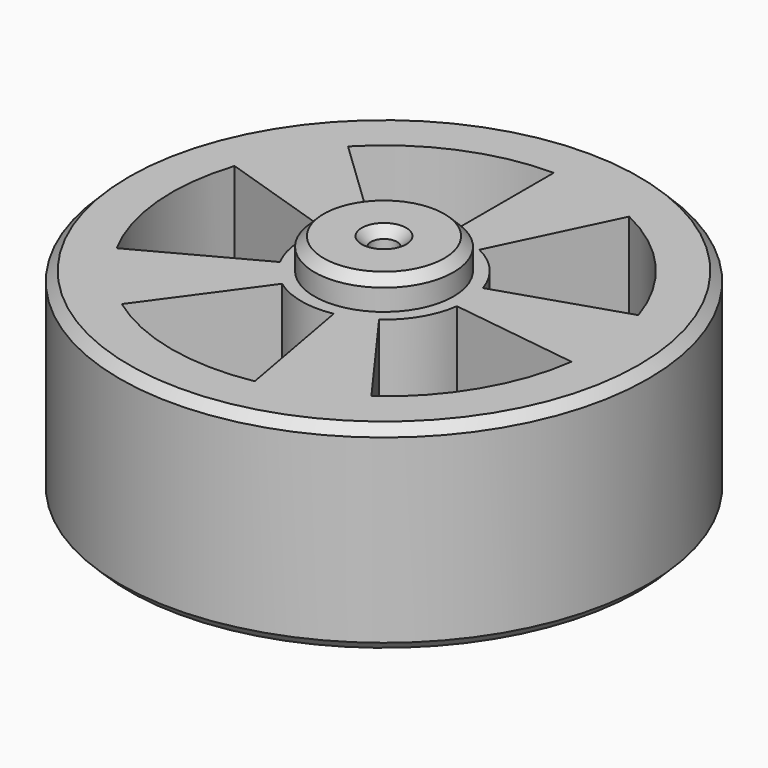
from build123d import *

# Parameters (mm, degrees)
SKETCH_R           = 28.5
PAD_DEPTH          = 21.5
SKETCH001_R        = 7.5
PAD001_DEPTH       = 3.3
SKETCH002_R        = 1.4
POCKET_DEPTH       = 22
POCKET001_DEPTH    = 190.178681
POLARPATTERN_COUNT = 5
CHAMFER_SIZE       = 1
CHAMFER001_SIZE    = 1
CHAMFER002_SIZE    = 1
CHAMFER003_SIZE    = 1


with BuildPart() as part:
    # Sketch → Pad (new body)
    with BuildSketch(Plane.XY):
        Circle(SKETCH_R)
    extrude(amount=PAD_DEPTH)

    # Sketch001 (on Face3 of Pad) → Pad001 (join)
    with BuildSketch(Plane.XY.offset(21.5)):
        Circle(SKETCH001_R)
    extrude(amount=PAD001_DEPTH)

    # Sketch002 (on Face5 of Pad001) → Pocket (cut)
    with BuildSketch(Plane.XY.offset(24.8)):
        Circle(SKETCH002_R)
    extrude(amount=-POCKET_DEPTH, mode=Mode.SUBTRACT)

    # Sketch003 (on Face3 of Pocket) → Pocket001 (cut, through all)
    with BuildSketch(Plane.XY.offset(21.5)):
        with BuildLine():
            Line((-6.437201, 6.159132), (-16.552795, 15.837703))
            ThreePointArc((0, 22.909122), (-9, 21.067223), (-16.552795, 15.837703))
            Line((0, 22.909122), (0, 8.909122))
            ThreePointArc((0, 8.909122), (-3.5, 8.19283), (-6.437201, 6.159132))
        make_face()
    pocket001 = extrude(amount=-POCKET001_DEPTH, mode=Mode.SUBTRACT)

    # PolarPattern: Pocket001 ×5 about axis
    polarpattern_axis = Axis((0, 0, 21.5), (0, 0, 1))
    for i in range(1, POLARPATTERN_COUNT):
        add(pocket001.rotate(polarpattern_axis, i * 360 / POLARPATTERN_COUNT), mode=Mode.SUBTRACT)

    # Chamfer
    chamfer_edges = [part.edges().sort_by_distance(p)[0] for p in [
        (-1.4, 0, 24.8),
    ]]
    chamfer(chamfer_edges, length=CHAMFER_SIZE)

    # Chamfer001
    chamfer001_edges = [part.edges().sort_by_distance(p)[0] for p in [
        (-28.5, 0, 21.5),
    ]]
    chamfer(chamfer001_edges, length=CHAMFER001_SIZE)

    # Chamfer002
    chamfer002_edges = [part.edges().sort_by_distance(p)[0] for p in [
        (-28.5, 0, 0),
    ]]
    chamfer(chamfer002_edges, length=CHAMFER002_SIZE)

    # Chamfer003
    chamfer003_edges = [part.edges().sort_by_distance(p)[0] for p in [
        (-7.5, 0, 24.8),
    ]]
    chamfer(chamfer003_edges, length=CHAMFER003_SIZE)


solid = part.part
